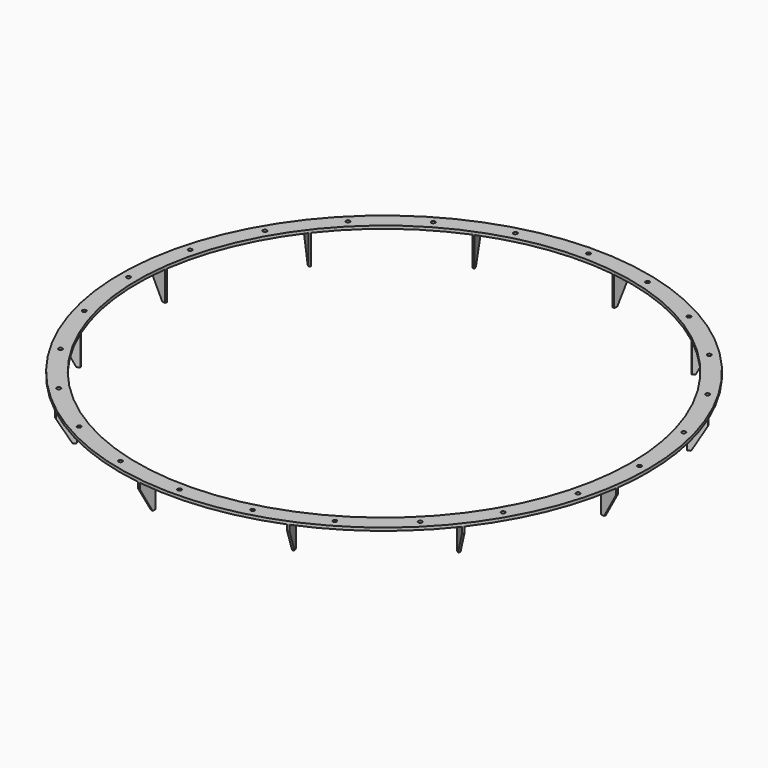
from build123d import *

# Parameters (mm, degrees)
F0_R     = 1342.5
F0_R_2   = 1256.5
F1_DEPTH = 15
F3_D     = 20
F5_DEPTH = 150
F6_SIZE2 = 69.2820323028
F6_SIZE  = 120
F7_COUNT = 12


with BuildPart() as f1:
    # F0 (on Top) → F1 (new body)
    with BuildSketch(Plane.XY):
        Circle(F0_R)
        Circle(F0_R_2, mode=Mode.SUBTRACT)
    extrude(amount=F1_DEPTH)

    # F3 (through all)
    with Locations(Plane.XY.offset(15)):
        with Locations((0, 1300), (-336.4647586333, 1255.7035741758), (-650, 1125.8330249198), (-919.2388155425, 919.2388155425), (-1125.8330249198, 650), (336.4647586333, 1255.7035741758), (650, 1125.8330249198), (919.2388155425, 919.2388155425), (1125.8330249198, 650), (1255.7035741758, 336.4647586333), (1300, 0), (1255.7035741758, -336.4647586333), (1125.8330249198, -650), (919.2388155425, -919.2388155425), (650, -1125.8330249198), (336.4647586333, -1255.7035741758), (0, -1300), (-336.4647586333, -1255.7035741758), (-650, -1125.8330249198), (-919.2388155425, -919.2388155425), (-1125.8330249198, -650), (-1255.7035741758, -336.4647586333), (-1300, 0), (-1255.7035741758, 336.4647586333)):
            Hole(F3_D / 2)

    # F4 (on face) → F5 (join)
    with BuildSketch(Plane(origin=(0, 0, 0), x_dir=(1, 0, 0), z_dir=(0, 0, -1))):
        Polygon((176.9372073515, -1330.8266132952), (186.8398880389, -1329.4348822856), (174.8654631428, -1244.2324219373), (164.9627824554, -1245.6241529469), align=None)
    extrude(amount=F5_DEPTH)

    # F6
    f6_edges = [f1.edges().sort_by_distance(p)[0] for p in [
        (181.888548, 1330.130748, -150),
    ]]
    f6_side = f1.faces().sort_by_distance((181.888548, 1330.130748, -75))[0]
    chamfer(f6_edges, length=F6_SIZE, length2=F6_SIZE2, reference=f6_side)

    # F7: F1 ×12 about axis
    f7_axis = Axis((0, 0, 15), (0, 0, 1))


with BuildPart() as f1_1:
    add(f1.part)
    for i in range(1, F7_COUNT):
        add(f1.part.rotate(f7_axis, i * 360 / F7_COUNT))


solid = f1_1.part
